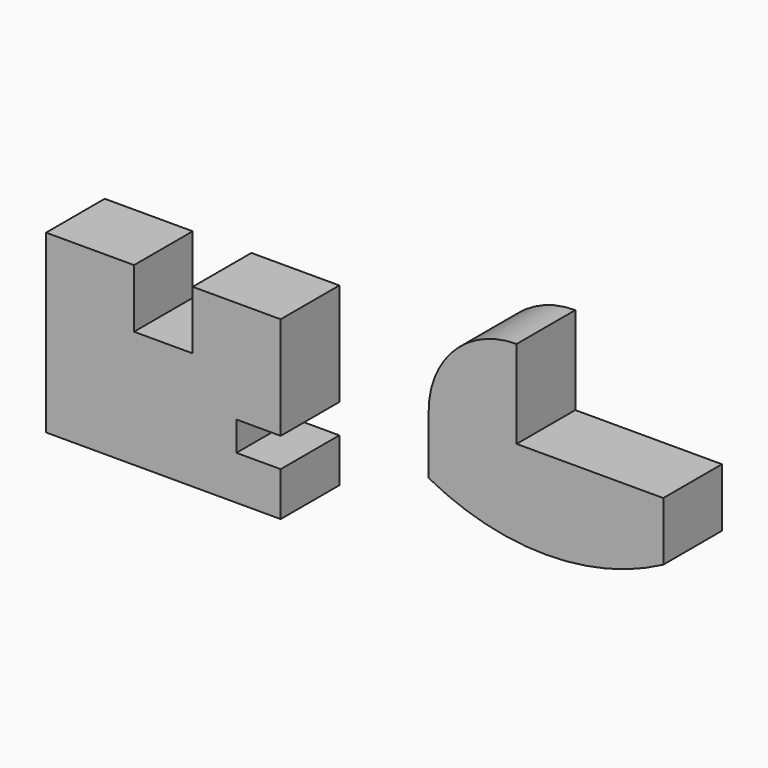
from build123d import *

# Parameters (mm, degrees)
F1_DEPTH = 25


with BuildPart() as f1:
    # F0 (on Front) → F1 (new body)
    with BuildSketch(Plane.XZ):
        Polygon((-37.042198, 44.341901), (-67.042198, 44.341901), (-67.042198, -15.658099), (12.957802, -15.658099), (12.957802, -0.658099), (-2.125666, -0.658099), (-2.125666, 9.341901), (12.957802, 9.341901), (12.957802, 44.341901), (-17.042198, 44.341901), (-17.042198, 24.341901), (-37.042198, 24.341901), align=None)
        with BuildLine():
            Line((93.42165, 33.09353), (93.42165, 63.09353))
            ThreePointArc((93.42165, 63.09353), (72.208447, 54.306734), (63.42165, 33.09353))
            Line((63.42165, 33.09353), (63.42165, 13.09353))
            ThreePointArc((63.42165, 13.09353), (103.42165, 3.09353), (143.42165, 13.09353))
            Line((143.42165, 13.09353), (143.42165, 33.09353))
            Line((143.42165, 33.09353), (93.42165, 33.09353))
        make_face()
    extrude(amount=F1_DEPTH)


solid = f1.part
